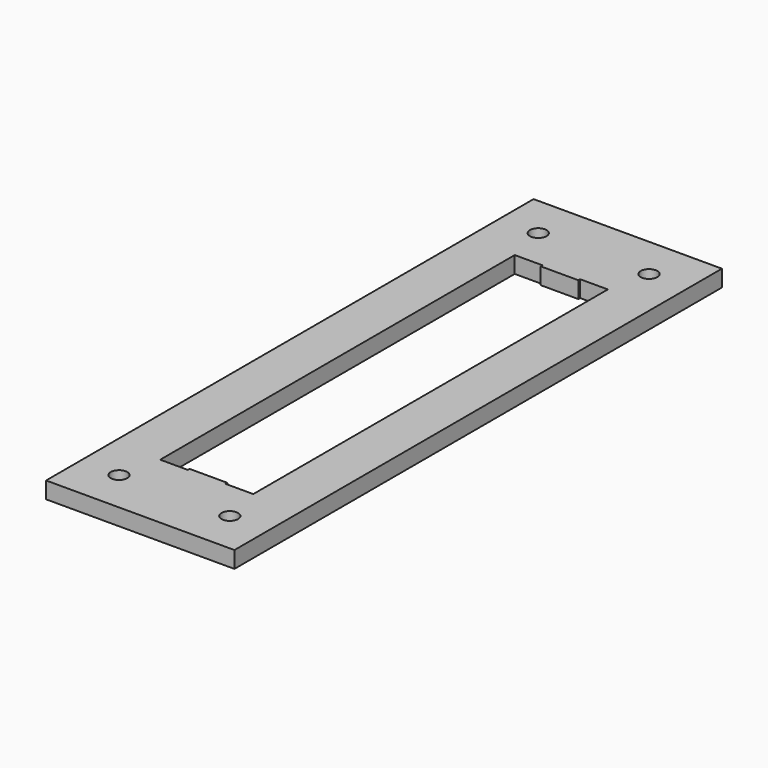
from build123d import *

# Parameters (mm, degrees)
F0_W     = 21.59
F0_H     = 69.85
F1_DEPTH = 1.905
F3_R     = 0.9525
F4_DEPTH = 25.4


with BuildPart() as f1:
    # F0 (on Top) → F1 (new body)
    with BuildSketch(Plane.XY):
        Rectangle(F0_W, F0_H)
        Polygon((2.159, 25.4), (5.334, 25.4), (5.334, -25.4), (2.159, -25.4), (2.159, -25.146), (-2.159, -25.146), (-2.159, -25.4), (-5.334, -25.4), (-5.334, 25.4), (-2.159, 25.4), (-2.159, 25.146), (2.159, 25.146), align=None, mode=Mode.SUBTRACT)
    extrude(amount=F1_DEPTH)

    # F3 (on face) → F4 (cut)
    with BuildSketch(Plane(origin=(0, 0, 0), x_dir=(1, 0, 0), z_dir=(0, 0, -1))):
        with Locations((6.35, 30.0355)):
            Circle(F3_R)
        with Locations((-6.35, 30.0355)):
            Circle(F3_R)
        with Locations((6.35, -30.0355)):
            Circle(F3_R)
        with Locations((-6.35, -30.0355)):
            Circle(F3_R)
    extrude(amount=-F4_DEPTH, mode=Mode.SUBTRACT)


solid = f1.part
